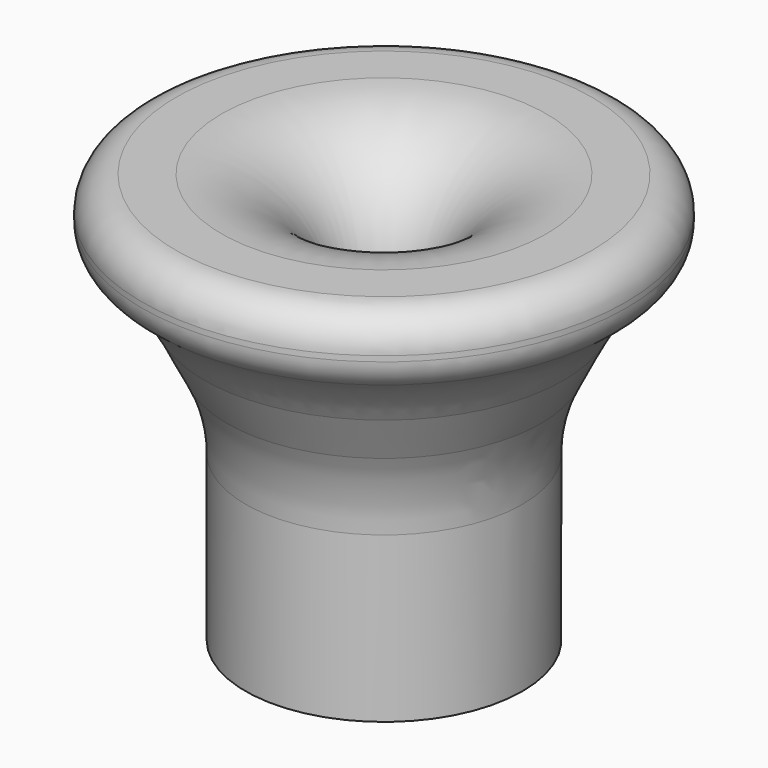
from build123d import *

# Parameters (mm, degrees)
F2_R     = 2.5
F3_DEPTH = 25
F4_R     = 2
F5_R     = 9
F6_R     = 10
F7_R     = 7


with BuildPart() as f1:
    # F0 (on Front) → F1 (revolve)
    with BuildSketch(Plane.XZ):
        Polygon((0, 24), (0, 0), (8.1, 0), (8.1, 12), (11.974087, 19.68414), (14.15, 19.68414), (14.15, 24), align=None)
    revolve(axis=Axis((0, 0, 12), (0, 0, 1)))

    # F2 (on face) → F3 (cut)
    with BuildSketch(Plane(origin=(0, 0, 0), x_dir=(1, 0, 0), z_dir=(0, 0, -1))):
        Circle(F2_R)
    extrude(amount=-F3_DEPTH, mode=Mode.SUBTRACT)

    # F4
    f4_edges = [f1.edges().sort_by_distance(p)[0] for p in [
        (-14.15, 0, 24),
        (-14.15, 0, 19.68414),
    ]]
    fillet(f4_edges, radius=F4_R)

    # F5
    f5_edges = [f1.edges().sort_by_distance(p)[0] for p in [
        (-11.974087, 0, 19.68414),
    ]]
    fillet(f5_edges, radius=F5_R)

    # F6
    f6_edges = [f1.edges().sort_by_distance(p)[0] for p in [
        (-8.1, 0, 12),
    ]]
    fillet(f6_edges, radius=F6_R)

    # F7
    f7_edges = [f1.edges().sort_by_distance(p)[0] for p in [
        (-2.5, 0, 24),
    ]]
    fillet(f7_edges, radius=F7_R)


solid = f1.part
